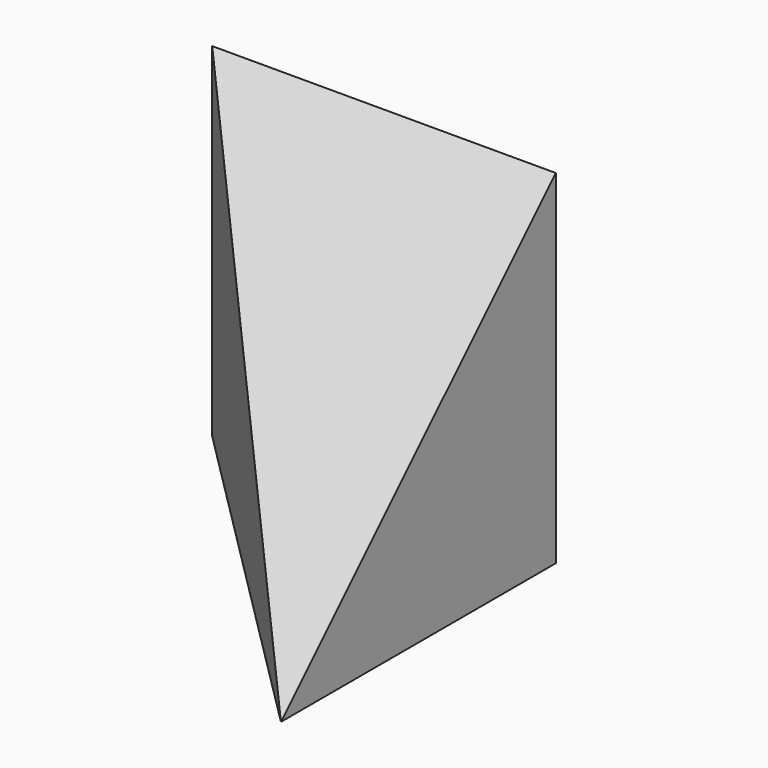
from build123d import *

# Parameters (mm, degrees)
F0_W     = 76.2
F0_H     = 76.2
F1_DEPTH = 38.1
F3_DEPTH = 76.2
F5_DEPTH = 76.2


with BuildPart() as f1:
    # F0 (on Right) → F1 (new body, symmetric)
    with BuildSketch(Plane.YZ):
        Rectangle(F0_W, F0_H)
    extrude(amount=F1_DEPTH, both=True)

    # F2 (on face) → F3 (cut)
    with BuildSketch(Plane.YZ.offset(38.1)):
        Polygon((38.1, 38.1), (-38.1, 38.1), (-38.1, -38.1), align=None)
    extrude(amount=-F3_DEPTH, mode=Mode.SUBTRACT)

    # F4 (on face) → F5 (cut)
    with BuildSketch(Plane(origin=(0, 0, -38.1), x_dir=(1, 0, 0), z_dir=(0, 0, -1))):
        Polygon((-38.1, -38.1), (38.1, 38.1), (-38.1, 38.1), align=None)
    extrude(amount=-F5_DEPTH, mode=Mode.SUBTRACT)


solid = f1.part
